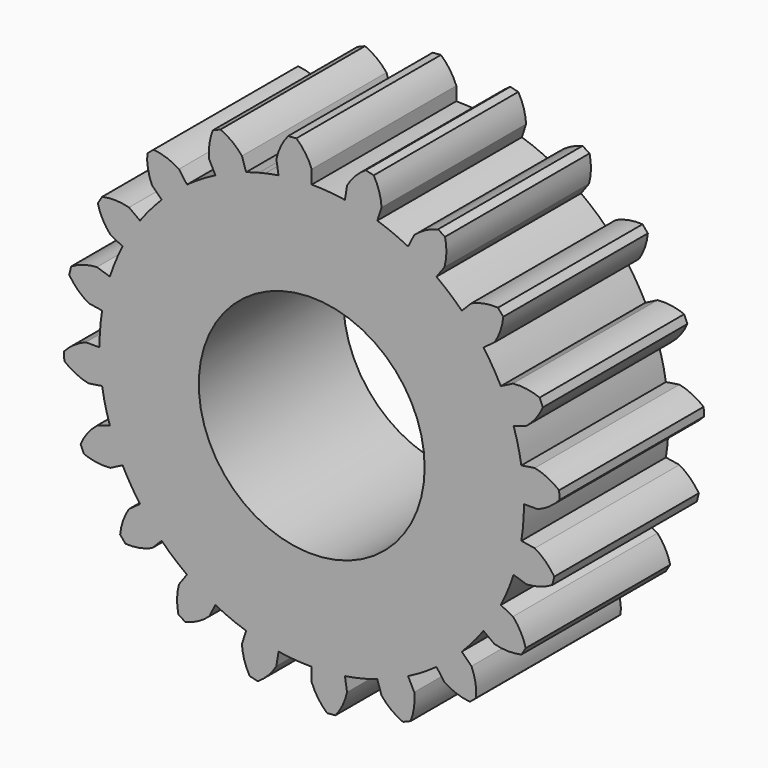
from build123d import *

# Parameters (mm, degrees)
F0_R     = 7.9375
F1_DEPTH = 12.7


with BuildPart() as f1:
    # F0 (on Front) → F1 (new body)
    with BuildSketch(Plane.XZ):
        with BuildLine():
            Line((2.483397, 15.679552), (2.33363, 14.73396))
            ThreePointArc((2.33363, 14.73396), (1.170423, 14.871634), (0, 14.91762))
            Line((0, 14.91762), (0, 15.875))
            ThreePointArc((0, 15.875), (-0.446712, 16.717422), (-1.081465, 17.42898))
            Line((-1.081465, 17.42898), (-1.658343, 17.383579))
            ThreePointArc((-1.658343, 17.383579), (-2.173969, 16.581484), (-2.483397, 15.679552))
            Line((-2.483397, 15.679552), (-2.33363, 14.73396))
            ThreePointArc((-2.33363, 14.73396), (-2.798128, 14.652845), (-3.25983, 14.557091))
            ThreePointArc((-3.25983, 14.557091), (-3.482449, 14.505445), (-3.704251, 14.450395))
            ThreePointArc((-3.704251, 14.450395), (-4.159102, 14.326104), (-4.609798, 14.1875))
            Line((-4.609798, 14.1875), (-4.905645, 15.098022))
            ThreePointArc((-4.905645, 15.098022), (-5.590815, 15.761172), (-6.414385, 16.241754))
            Line((-6.414385, 16.241754), (-6.948999, 16.02031))
            ThreePointArc((-6.948999, 16.02031), (-7.191528, 15.098135), (-7.207099, 14.144729))
            Line((-7.207099, 14.144729), (-6.772458, 13.291697))
            ThreePointArc((-6.772458, 13.291697), (-7.794435, 12.719362), (-8.768357, 12.068608))
            Line((-8.768357, 12.068608), (-9.331091, 12.843145))
            ThreePointArc((-9.331091, 12.843145), (-10.187651, 13.262108), (-11.119421, 13.464672))
            Line((-11.119421, 13.464672), (-11.559439, 13.088861))
            ThreePointArc((-11.559439, 13.088861), (-11.50513, 12.136875), (-11.22532, 11.22532))
            Line((-11.22532, 11.22532), (-10.548351, 10.548351))
            ThreePointArc((-10.548351, 10.548351), (-11.343448, 9.688219), (-12.068608, 8.768357))
            Line((-12.068608, 8.768357), (-12.843145, 9.331091))
            ThreePointArc((-12.843145, 9.331091), (-13.787249, 9.464857), (-14.73601, 9.369574))
            Line((-14.73601, 9.369574), (-15.03836, 8.876183))
            ThreePointArc((-15.03836, 8.876183), (-14.692529, 7.987574), (-14.144729, 7.207099))
            Line((-14.144729, 7.207099), (-13.291697, 6.772458))
            ThreePointArc((-13.291697, 6.772458), (-13.782084, 5.708726), (-14.1875, 4.609798))
            Line((-14.1875, 4.609798), (-15.098022, 4.905645))
            ThreePointArc((-15.098022, 4.905645), (-16.037255, 4.74112), (-16.910136, 4.357317))
            Line((-16.910136, 4.357317), (-17.045222, 3.794643))
            ThreePointArc((-17.045222, 3.794643), (-16.441722, 3.056393), (-15.679552, 2.483397))
            Line((-15.679552, 2.483397), (-14.73396, 2.33363))
            ThreePointArc((-14.73396, 2.33363), (-14.871634, 1.170423), (-14.91762, 0))
            Line((-14.91762, 0), (-15.875, 0))
            ThreePointArc((-15.875, 0), (-16.717422, -0.446712), (-17.42898, -1.081465))
            Line((-17.42898, -1.081465), (-17.383579, -1.658343))
            ThreePointArc((-17.383579, -1.658343), (-16.581484, -2.173969), (-15.679552, -2.483397))
            Line((-15.679552, -2.483397), (-14.73396, -2.33363))
            ThreePointArc((-14.73396, -2.33363), (-14.505445, -3.482449), (-14.1875, -4.609798))
            Line((-14.1875, -4.609798), (-15.098022, -4.905645))
            ThreePointArc((-15.098022, -4.905645), (-15.761172, -5.590815), (-16.241754, -6.414385))
            Line((-16.241754, -6.414385), (-16.02031, -6.948999))
            ThreePointArc((-16.02031, -6.948999), (-15.098135, -7.191528), (-14.144729, -7.207099))
            Line((-14.144729, -7.207099), (-13.291697, -6.772458))
            ThreePointArc((-13.291697, -6.772458), (-12.719362, -7.794435), (-12.068608, -8.768357))
            Line((-12.068608, -8.768357), (-12.843145, -9.331091))
            ThreePointArc((-12.843145, -9.331091), (-13.262108, -10.187651), (-13.464672, -11.119421))
            Line((-13.464672, -11.119421), (-13.088861, -11.559439))
            ThreePointArc((-13.088861, -11.559439), (-12.136875, -11.50513), (-11.22532, -11.22532))
            Line((-11.22532, -11.22532), (-10.548351, -10.548351))
            ThreePointArc((-10.548351, -10.548351), (-9.688219, -11.343448), (-8.768357, -12.068608))
            Line((-8.768357, -12.068608), (-9.331091, -12.843145))
            ThreePointArc((-9.331091, -12.843145), (-9.464857, -13.787249), (-9.369574, -14.73601))
            Line((-9.369574, -14.73601), (-8.876183, -15.03836))
            ThreePointArc((-8.876183, -15.03836), (-7.987574, -14.692529), (-7.207099, -14.144729))
            Line((-7.207099, -14.144729), (-6.772458, -13.291697))
            ThreePointArc((-6.772458, -13.291697), (-5.708726, -13.782084), (-4.609798, -14.1875))
            Line((-4.609798, -14.1875), (-4.905645, -15.098022))
            ThreePointArc((-4.905645, -15.098022), (-4.74112, -16.037255), (-4.357317, -16.910136))
            Line((-4.357317, -16.910136), (-3.794643, -17.045222))
            ThreePointArc((-3.794643, -17.045222), (-3.056393, -16.441722), (-2.483397, -15.679552))
            Line((-2.483397, -15.679552), (-2.33363, -14.73396))
            ThreePointArc((-2.33363, -14.73396), (-1.170423, -14.871634), (0, -14.91762))
            Line((0, -14.91762), (0, -15.875))
            ThreePointArc((0, -15.875), (0.446712, -16.717422), (1.081465, -17.42898))
            Line((1.081465, -17.42898), (1.658343, -17.383579))
            ThreePointArc((1.658343, -17.383579), (2.173969, -16.581484), (2.483397, -15.679552))
            Line((2.483397, -15.679552), (2.33363, -14.73396))
            ThreePointArc((2.33363, -14.73396), (3.482449, -14.505445), (4.609798, -14.1875))
            Line((4.609798, -14.1875), (4.905645, -15.098022))
            ThreePointArc((4.905645, -15.098022), (5.590815, -15.761172), (6.414385, -16.241754))
            Line((6.414385, -16.241754), (6.948999, -16.02031))
            ThreePointArc((6.948999, -16.02031), (7.191528, -15.098135), (7.207099, -14.144729))
            Line((7.207099, -14.144729), (6.772458, -13.291697))
            ThreePointArc((6.772458, -13.291697), (7.794435, -12.719362), (8.768357, -12.068608))
            Line((8.768357, -12.068608), (9.331091, -12.843145))
            ThreePointArc((9.331091, -12.843145), (10.187651, -13.262108), (11.119421, -13.464672))
            Line((11.119421, -13.464672), (11.559439, -13.088861))
            ThreePointArc((11.559439, -13.088861), (11.50513, -12.136875), (11.22532, -11.22532))
            Line((11.22532, -11.22532), (10.548351, -10.548351))
            ThreePointArc((10.548351, -10.548351), (11.343448, -9.688219), (12.068608, -8.768357))
            Line((12.068608, -8.768357), (12.843145, -9.331091))
            ThreePointArc((12.843145, -9.331091), (13.787249, -9.464857), (14.73601, -9.369574))
            Line((14.73601, -9.369574), (15.03836, -8.876183))
            ThreePointArc((15.03836, -8.876183), (14.692529, -7.987574), (14.144729, -7.207099))
            Line((14.144729, -7.207099), (13.291697, -6.772458))
            ThreePointArc((13.291697, -6.772458), (13.782084, -5.708726), (14.1875, -4.609798))
            Line((14.1875, -4.609798), (15.098022, -4.905645))
            ThreePointArc((15.098022, -4.905645), (16.037255, -4.74112), (16.910136, -4.357317))
            Line((16.910136, -4.357317), (17.045222, -3.794643))
            ThreePointArc((17.045222, -3.794643), (16.441722, -3.056393), (15.679552, -2.483397))
            Line((15.679552, -2.483397), (14.73396, -2.33363))
            ThreePointArc((14.73396, -2.33363), (14.871634, -1.170423), (14.91762, 0))
            Line((14.91762, 0), (15.875, 0))
            ThreePointArc((15.875, 0), (16.717422, 0.446712), (17.42898, 1.081465))
            Line((17.42898, 1.081465), (17.383579, 1.658343))
            ThreePointArc((17.383579, 1.658343), (16.581484, 2.173969), (15.679552, 2.483397))
            Line((15.679552, 2.483397), (14.73396, 2.33363))
            ThreePointArc((14.73396, 2.33363), (14.505445, 3.482449), (14.1875, 4.609798))
            Line((14.1875, 4.609798), (15.098022, 4.905645))
            ThreePointArc((15.098022, 4.905645), (15.761172, 5.590815), (16.241754, 6.414385))
            Line((16.241754, 6.414385), (16.02031, 6.948999))
            ThreePointArc((16.02031, 6.948999), (15.098135, 7.191528), (14.144729, 7.207099))
            Line((14.144729, 7.207099), (13.291697, 6.772458))
            ThreePointArc((13.291697, 6.772458), (12.719362, 7.794435), (12.068608, 8.768357))
            Line((12.068608, 8.768357), (12.843145, 9.331091))
            ThreePointArc((12.843145, 9.331091), (13.262108, 10.187651), (13.464672, 11.119421))
            Line((13.464672, 11.119421), (13.088861, 11.559439))
            ThreePointArc((13.088861, 11.559439), (12.136875, 11.50513), (11.22532, 11.22532))
            Line((11.22532, 11.22532), (10.548351, 10.548351))
            ThreePointArc((10.548351, 10.548351), (9.688219, 11.343448), (8.768357, 12.068608))
            Line((8.768357, 12.068608), (9.331091, 12.843145))
            ThreePointArc((9.331091, 12.843145), (9.464857, 13.787249), (9.369574, 14.73601))
            Line((9.369574, 14.73601), (8.876183, 15.03836))
            ThreePointArc((8.876183, 15.03836), (7.987574, 14.692529), (7.207099, 14.144729))
            Line((7.207099, 14.144729), (6.772458, 13.291697))
            ThreePointArc((6.772458, 13.291697), (5.708726, 13.782084), (4.609798, 14.1875))
            Line((4.609798, 14.1875), (4.905645, 15.098022))
            ThreePointArc((4.905645, 15.098022), (4.74112, 16.037255), (4.357317, 16.910136))
            Line((4.357317, 16.910136), (3.794643, 17.045222))
            ThreePointArc((3.794643, 17.045222), (3.056393, 16.441722), (2.483397, 15.679552))
        make_face()
        Circle(F0_R, mode=Mode.SUBTRACT)
        with BuildLine():
            Line((2.483397, 15.679552), (2.33363, 14.73396))
            ThreePointArc((2.33363, 14.73396), (1.170423, 14.871634), (0, 14.91762))
            Line((0, 14.91762), (0, 15.875))
            ThreePointArc((0, 15.875), (-0.446712, 16.717422), (-1.081465, 17.42898))
            Line((-1.081465, 17.42898), (-1.658343, 17.383579))
            ThreePointArc((-1.658343, 17.383579), (-2.173969, 16.581484), (-2.483397, 15.679552))
            Line((-2.483397, 15.679552), (-2.33363, 14.73396))
            ThreePointArc((-2.33363, 14.73396), (-2.798128, 14.652845), (-3.25983, 14.557091))
            ThreePointArc((-3.25983, 14.557091), (-3.482449, 14.505445), (-3.704251, 14.450395))
            ThreePointArc((-3.704251, 14.450395), (-4.159102, 14.326104), (-4.609798, 14.1875))
            Line((-4.609798, 14.1875), (-4.905645, 15.098022))
            ThreePointArc((-4.905645, 15.098022), (-5.590815, 15.761172), (-6.414385, 16.241754))
            Line((-6.414385, 16.241754), (-6.948999, 16.02031))
            ThreePointArc((-6.948999, 16.02031), (-7.191528, 15.098135), (-7.207099, 14.144729))
            Line((-7.207099, 14.144729), (-6.772458, 13.291697))
            ThreePointArc((-6.772458, 13.291697), (-7.794435, 12.719362), (-8.768357, 12.068608))
            Line((-8.768357, 12.068608), (-9.331091, 12.843145))
            ThreePointArc((-9.331091, 12.843145), (-10.187651, 13.262108), (-11.119421, 13.464672))
            Line((-11.119421, 13.464672), (-11.559439, 13.088861))
            ThreePointArc((-11.559439, 13.088861), (-11.50513, 12.136875), (-11.22532, 11.22532))
            Line((-11.22532, 11.22532), (-10.548351, 10.548351))
            ThreePointArc((-10.548351, 10.548351), (-11.343448, 9.688219), (-12.068608, 8.768357))
            Line((-12.068608, 8.768357), (-12.843145, 9.331091))
            ThreePointArc((-12.843145, 9.331091), (-13.787249, 9.464857), (-14.73601, 9.369574))
            Line((-14.73601, 9.369574), (-15.03836, 8.876183))
            ThreePointArc((-15.03836, 8.876183), (-14.692529, 7.987574), (-14.144729, 7.207099))
            Line((-14.144729, 7.207099), (-13.291697, 6.772458))
            ThreePointArc((-13.291697, 6.772458), (-13.782084, 5.708726), (-14.1875, 4.609798))
            Line((-14.1875, 4.609798), (-15.098022, 4.905645))
            ThreePointArc((-15.098022, 4.905645), (-16.037255, 4.74112), (-16.910136, 4.357317))
            Line((-16.910136, 4.357317), (-17.045222, 3.794643))
            ThreePointArc((-17.045222, 3.794643), (-16.441722, 3.056393), (-15.679552, 2.483397))
            Line((-15.679552, 2.483397), (-14.73396, 2.33363))
            ThreePointArc((-14.73396, 2.33363), (-14.871634, 1.170423), (-14.91762, 0))
            Line((-14.91762, 0), (-15.875, 0))
            ThreePointArc((-15.875, 0), (-16.717422, -0.446712), (-17.42898, -1.081465))
            Line((-17.42898, -1.081465), (-17.383579, -1.658343))
            ThreePointArc((-17.383579, -1.658343), (-16.581484, -2.173969), (-15.679552, -2.483397))
            Line((-15.679552, -2.483397), (-14.73396, -2.33363))
            ThreePointArc((-14.73396, -2.33363), (-14.505445, -3.482449), (-14.1875, -4.609798))
            Line((-14.1875, -4.609798), (-15.098022, -4.905645))
            ThreePointArc((-15.098022, -4.905645), (-15.761172, -5.590815), (-16.241754, -6.414385))
            Line((-16.241754, -6.414385), (-16.02031, -6.948999))
            ThreePointArc((-16.02031, -6.948999), (-15.098135, -7.191528), (-14.144729, -7.207099))
            Line((-14.144729, -7.207099), (-13.291697, -6.772458))
            ThreePointArc((-13.291697, -6.772458), (-12.719362, -7.794435), (-12.068608, -8.768357))
            Line((-12.068608, -8.768357), (-12.843145, -9.331091))
            ThreePointArc((-12.843145, -9.331091), (-13.262108, -10.187651), (-13.464672, -11.119421))
            Line((-13.464672, -11.119421), (-13.088861, -11.559439))
            ThreePointArc((-13.088861, -11.559439), (-12.136875, -11.50513), (-11.22532, -11.22532))
            Line((-11.22532, -11.22532), (-10.548351, -10.548351))
            ThreePointArc((-10.548351, -10.548351), (-9.688219, -11.343448), (-8.768357, -12.068608))
            Line((-8.768357, -12.068608), (-9.331091, -12.843145))
            ThreePointArc((-9.331091, -12.843145), (-9.464857, -13.787249), (-9.369574, -14.73601))
            Line((-9.369574, -14.73601), (-8.876183, -15.03836))
            ThreePointArc((-8.876183, -15.03836), (-7.987574, -14.692529), (-7.207099, -14.144729))
            Line((-7.207099, -14.144729), (-6.772458, -13.291697))
            ThreePointArc((-6.772458, -13.291697), (-5.708726, -13.782084), (-4.609798, -14.1875))
            Line((-4.609798, -14.1875), (-4.905645, -15.098022))
            ThreePointArc((-4.905645, -15.098022), (-4.74112, -16.037255), (-4.357317, -16.910136))
            Line((-4.357317, -16.910136), (-3.794643, -17.045222))
            ThreePointArc((-3.794643, -17.045222), (-3.056393, -16.441722), (-2.483397, -15.679552))
            Line((-2.483397, -15.679552), (-2.33363, -14.73396))
            ThreePointArc((-2.33363, -14.73396), (-1.170423, -14.871634), (0, -14.91762))
            Line((0, -14.91762), (0, -15.875))
            ThreePointArc((0, -15.875), (0.446712, -16.717422), (1.081465, -17.42898))
            Line((1.081465, -17.42898), (1.658343, -17.383579))
            ThreePointArc((1.658343, -17.383579), (2.173969, -16.581484), (2.483397, -15.679552))
            Line((2.483397, -15.679552), (2.33363, -14.73396))
            ThreePointArc((2.33363, -14.73396), (3.482449, -14.505445), (4.609798, -14.1875))
            Line((4.609798, -14.1875), (4.905645, -15.098022))
            ThreePointArc((4.905645, -15.098022), (5.590815, -15.761172), (6.414385, -16.241754))
            Line((6.414385, -16.241754), (6.948999, -16.02031))
            ThreePointArc((6.948999, -16.02031), (7.191528, -15.098135), (7.207099, -14.144729))
            Line((7.207099, -14.144729), (6.772458, -13.291697))
            ThreePointArc((6.772458, -13.291697), (7.794435, -12.719362), (8.768357, -12.068608))
            Line((8.768357, -12.068608), (9.331091, -12.843145))
            ThreePointArc((9.331091, -12.843145), (10.187651, -13.262108), (11.119421, -13.464672))
            Line((11.119421, -13.464672), (11.559439, -13.088861))
            ThreePointArc((11.559439, -13.088861), (11.50513, -12.136875), (11.22532, -11.22532))
            Line((11.22532, -11.22532), (10.548351, -10.548351))
            ThreePointArc((10.548351, -10.548351), (11.343448, -9.688219), (12.068608, -8.768357))
            Line((12.068608, -8.768357), (12.843145, -9.331091))
            ThreePointArc((12.843145, -9.331091), (13.787249, -9.464857), (14.73601, -9.369574))
            Line((14.73601, -9.369574), (15.03836, -8.876183))
            ThreePointArc((15.03836, -8.876183), (14.692529, -7.987574), (14.144729, -7.207099))
            Line((14.144729, -7.207099), (13.291697, -6.772458))
            ThreePointArc((13.291697, -6.772458), (13.782084, -5.708726), (14.1875, -4.609798))
            Line((14.1875, -4.609798), (15.098022, -4.905645))
            ThreePointArc((15.098022, -4.905645), (16.037255, -4.74112), (16.910136, -4.357317))
            Line((16.910136, -4.357317), (17.045222, -3.794643))
            ThreePointArc((17.045222, -3.794643), (16.441722, -3.056393), (15.679552, -2.483397))
            Line((15.679552, -2.483397), (14.73396, -2.33363))
            ThreePointArc((14.73396, -2.33363), (14.871634, -1.170423), (14.91762, 0))
            Line((14.91762, 0), (15.875, 0))
            ThreePointArc((15.875, 0), (16.717422, 0.446712), (17.42898, 1.081465))
            Line((17.42898, 1.081465), (17.383579, 1.658343))
            ThreePointArc((17.383579, 1.658343), (16.581484, 2.173969), (15.679552, 2.483397))
            Line((15.679552, 2.483397), (14.73396, 2.33363))
            ThreePointArc((14.73396, 2.33363), (14.505445, 3.482449), (14.1875, 4.609798))
            Line((14.1875, 4.609798), (15.098022, 4.905645))
            ThreePointArc((15.098022, 4.905645), (15.761172, 5.590815), (16.241754, 6.414385))
            Line((16.241754, 6.414385), (16.02031, 6.948999))
            ThreePointArc((16.02031, 6.948999), (15.098135, 7.191528), (14.144729, 7.207099))
            Line((14.144729, 7.207099), (13.291697, 6.772458))
            ThreePointArc((13.291697, 6.772458), (12.719362, 7.794435), (12.068608, 8.768357))
            Line((12.068608, 8.768357), (12.843145, 9.331091))
            ThreePointArc((12.843145, 9.331091), (13.262108, 10.187651), (13.464672, 11.119421))
            Line((13.464672, 11.119421), (13.088861, 11.559439))
            ThreePointArc((13.088861, 11.559439), (12.136875, 11.50513), (11.22532, 11.22532))
            Line((11.22532, 11.22532), (10.548351, 10.548351))
            ThreePointArc((10.548351, 10.548351), (9.688219, 11.343448), (8.768357, 12.068608))
            Line((8.768357, 12.068608), (9.331091, 12.843145))
            ThreePointArc((9.331091, 12.843145), (9.464857, 13.787249), (9.369574, 14.73601))
            Line((9.369574, 14.73601), (8.876183, 15.03836))
            ThreePointArc((8.876183, 15.03836), (7.987574, 14.692529), (7.207099, 14.144729))
            Line((7.207099, 14.144729), (6.772458, 13.291697))
            ThreePointArc((6.772458, 13.291697), (5.708726, 13.782084), (4.609798, 14.1875))
            Line((4.609798, 14.1875), (4.905645, 15.098022))
            ThreePointArc((4.905645, 15.098022), (4.74112, 16.037255), (4.357317, 16.910136))
            Line((4.357317, 16.910136), (3.794643, 17.045222))
            ThreePointArc((3.794643, 17.045222), (3.056393, 16.441722), (2.483397, 15.679552))
        make_face()
        Circle(F0_R, mode=Mode.SUBTRACT)
    extrude(amount=-F1_DEPTH)


solid = f1.part
